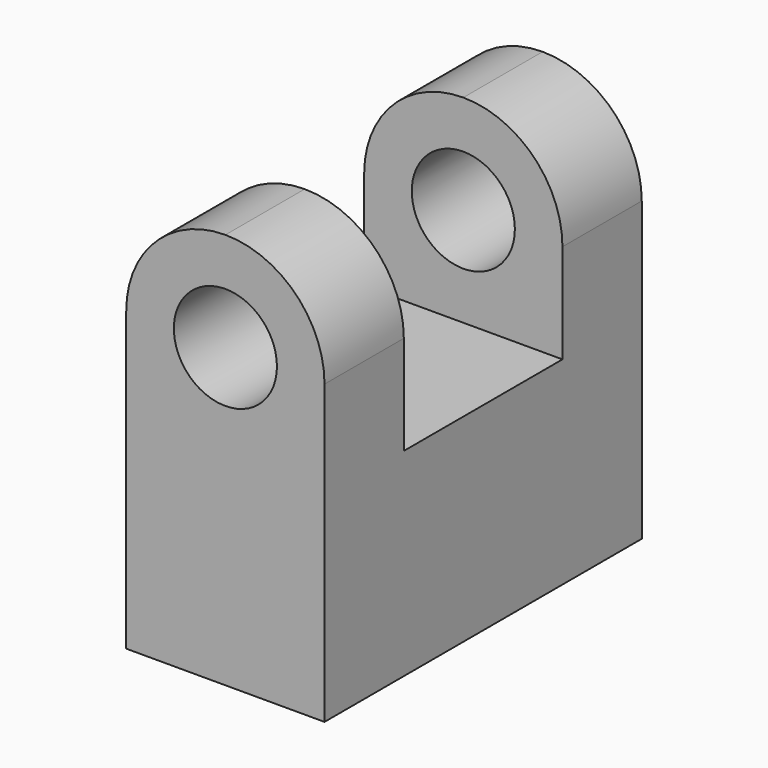
from build123d import *

# Parameters (mm, degrees)
F0_R     = 0.8255
F1_DEPTH = 3.175
F2_DEPTH = 1.5875


with BuildPart() as f1:
    # F0 (on Front) → F1 (new body, symmetric)
    with BuildSketch(Plane.XZ):
        Polygon((-1.5875, -1.5875), (1.5875, -1.5875), (1.5875, 1.5875), (0, 1.5875), (-1.5875, 1.5875), align=None)
        with BuildLine():
            ThreePointArc((-1.5875, 3.175), (-1.1225320151, 2.0524679849), (0, 1.5875))
            ThreePointArc((0, 1.5875), (1.1225320151, 2.0524679849), (1.5875, 3.175))
            ThreePointArc((1.5875, 3.175), (1.1225320091, 4.2975320212), (-1.72e-08, 4.7625))
            ThreePointArc((-1.72e-08, 4.7625), (-1.1225320212, 4.2975320091), (-1.5875, 3.175))
        make_face()
        with Locations((0, 3.175)):
            Circle(F0_R, mode=Mode.SUBTRACT)
        with BuildLine():
            Line((0, 1.5875), (1.5875, 1.5875))
            Line((1.5875, 1.5875), (1.5875, 3.175))
            ThreePointArc((1.5875, 3.175), (1.1225320151, 2.0524679849), (0, 1.5875))
        make_face()
        with BuildLine():
            Line((-1.5875, 3.175), (-1.5875, 1.5875))
            Line((-1.5875, 1.5875), (0, 1.5875))
            ThreePointArc((0, 1.5875), (-1.1225320151, 2.0524679849), (-1.5875, 3.175))
        make_face()
    extrude(amount=F1_DEPTH, both=True)

    # F0 (on Front) → F2 (cut, symmetric)
    with BuildSketch(Plane.XZ):
        with BuildLine():
            Line((-2.54, 1.5875), (-1.5875, 1.5875))
            Line((-1.5875, 1.5875), (-1.5875, 3.175))
            ThreePointArc((-1.5875, 3.175), (-1.1225320212, 4.2975320091), (-1.72e-08, 4.7625))
            Line((-1.72e-08, 4.7625), (-2.54, 4.7625))
            Line((-2.54, 4.7625), (-2.54, 1.5875))
        make_face()
        with BuildLine():
            Line((-1.5875, 3.175), (-1.5875, 1.5875))
            Line((-1.5875, 1.5875), (0, 1.5875))
            ThreePointArc((0, 1.5875), (-1.1225320151, 2.0524679849), (-1.5875, 3.175))
        make_face()
        with BuildLine():
            ThreePointArc((-1.5875, 3.175), (-1.1225320151, 2.0524679849), (0, 1.5875))
            ThreePointArc((0, 1.5875), (1.1225320151, 2.0524679849), (1.5875, 3.175))
            ThreePointArc((1.5875, 3.175), (1.1225320091, 4.2975320212), (-1.72e-08, 4.7625))
            ThreePointArc((-1.72e-08, 4.7625), (-1.1225320212, 4.2975320091), (-1.5875, 3.175))
        make_face()
        with Locations((0, 3.175)):
            Circle(F0_R, mode=Mode.SUBTRACT)
        with Locations((0, 3.175)):
            Circle(F0_R)
        with BuildLine():
            Line((0, 1.5875), (1.5875, 1.5875))
            Line((1.5875, 1.5875), (1.5875, 3.175))
            ThreePointArc((1.5875, 3.175), (1.1225320151, 2.0524679849), (0, 1.5875))
        make_face()
    extrude(amount=F2_DEPTH, both=True, mode=Mode.SUBTRACT)


solid = f1.part
